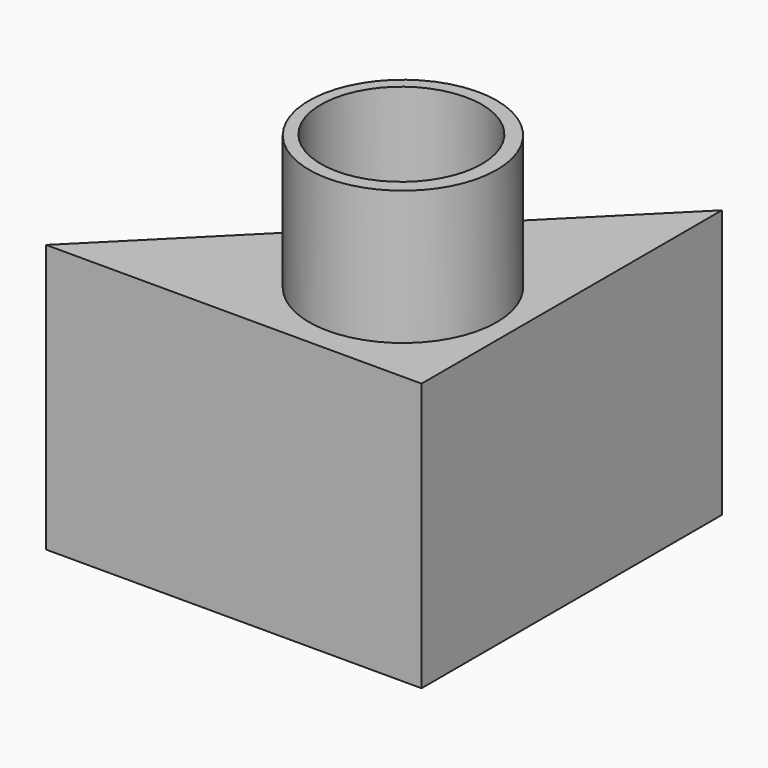
from build123d import *

# Parameters (mm, degrees)
F1_DEPTH = 25.4
F3_R     = 8.89
F4_DEPTH = 12.7
F2_R     = 7.62
F5_DEPTH = 39.116
F6_R     = 8.89
F6_R_2   = 7.62
F7_DEPTH = 12.7


with BuildPart() as f1:
    # F0 (on Top) → F1 (new body)
    with BuildSketch(Plane.XY):
        Polygon((-24.6135034411, 35.56), (-60.1735034411, 0), (-24.6135034411, 0), align=None)
    extrude(amount=F1_DEPTH)

    # F3 (on face) → F4 (join)
    with BuildSketch(Plane.XY.offset(25.4)):
        with Locations((-35.3040769696, 11.1599909142)):
            Circle(F3_R)
    extrude(amount=F4_DEPTH)

    # F2 (on face) → F5 (cut)
    with BuildSketch(Plane.XY.offset(25.4)):
        with Locations((-35.4857780039, 11.2061388791)):
            Circle(F2_R)
    extrude(amount=F5_DEPTH, mode=Mode.SUBTRACT)

    # F6 (on face) → F7 (join)
    with BuildSketch(Plane(origin=(-30.0867517206, 30.0867517206, 0), x_dir=(-0.7071067812, -0.7071067812, 0), z_dir=(-0.7071067812, 0.7071067812, 0))):
        with Locations((17.4403432757, 11.6122188047)):
            Circle(F6_R)
        with Locations((17.4403432757, 11.6122188047)):
            Circle(F6_R_2, mode=Mode.SUBTRACT)
    extrude(amount=F7_DEPTH)


solid = f1.part
